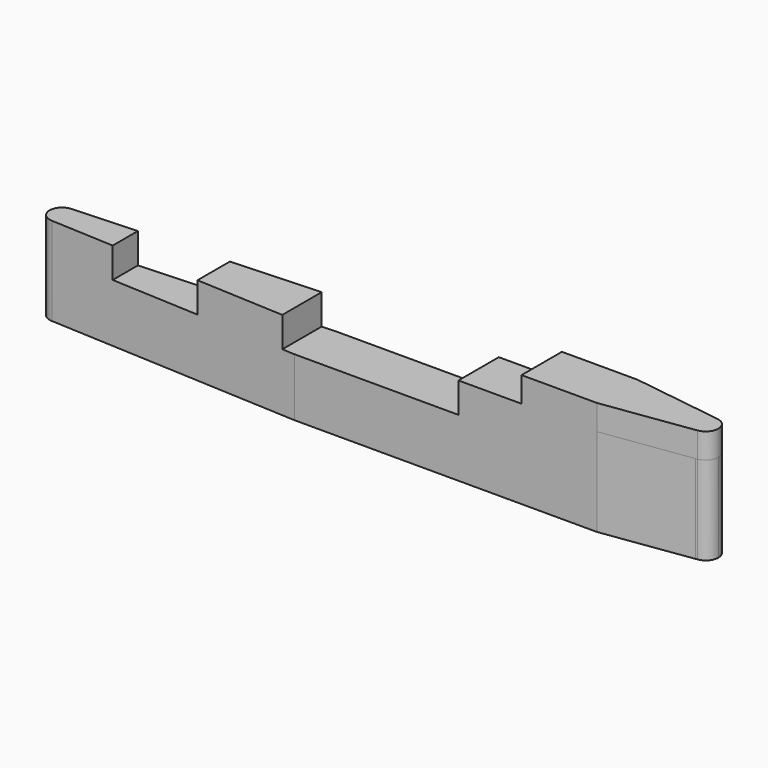
from build123d import *

# Parameters (mm, degrees)
F1_DEPTH = 35
F3_DEPTH = 10
F5_DEPTH = 12
F6_DEPTH = 12


with BuildPart() as f1:
    # F0 (on Top) → F1 (new body)
    with BuildSketch(Plane.XY):
        with BuildLine():
            Line((-62.8165142711, -9.8129920568), (57.1834857289, -9.8129920568))
            Line((57.1834857289, -9.8129920568), (92.1834857289, -4.8627543336))
            Line((92.1834857289, -4.8627543336), (92.8836937573, -4.7637201565))
            ThreePointArc((92.8836937573, -4.7637201565), (95.958471831, -3.0916320079), (97.1834857289, 0.1870079432))
            ThreePointArc((97.1834857289, 0.1870079432), (95.958471831, 3.4656478942), (92.8836937573, 5.1377360428))
            Line((92.8836937573, 5.1377360428), (57.1834857289, 10.1870079432))
            Line((57.1834857289, 10.1870079432), (-62.8165142711, 10.1870079432))
            Line((-62.8165142711, 10.1870079432), (-162.8165142711, 5.1870079432))
            ThreePointArc((-162.8165142711, 5.1870079432), (-167.8165142711, 0.1870079432), (-162.8165142711, -4.8129920568))
            Line((-162.8165142711, -4.8129920568), (-62.8165142711, -9.8129920568))
        make_face()
    extrude(amount=F1_DEPTH)

    # F2 (on face) → F3 (join)
    with BuildSketch(Plane.XY.offset(35)):
        with BuildLine():
            Line((57.1834857289, 10.1870079432), (27.1834857289, 10.1870079432))
            Line((27.1834857289, 10.1870079432), (27.1834857289, -9.8129920568))
            Line((27.1834857289, -9.8129920568), (57.1834857289, -9.8129920568))
            Line((57.1834857289, -9.8129920568), (92.8836937573, -4.7637201565))
            ThreePointArc((92.8836937573, -4.7637201565), (97.1834857289, 0.1870079432), (92.8836937573, 5.1377360428))
            Line((92.8836937573, 5.1377360428), (57.1834857289, 10.1870079432))
        make_face()
    extrude(amount=F3_DEPTH)

    # F4 (on face) → F5 (cut)
    with BuildSketch(Plane.XY.offset(35)):
        Polygon((2.1834857289, -9.8129920568), (2.1834857289, 10.1870079432), (-62.8165142711, 10.1870079432), (-67.8165142711, 9.9370079432), (-67.8165142711, -9.5629920568), (-62.8165142711, -9.8129920568), align=None)
    extrude(amount=-F5_DEPTH, mode=Mode.SUBTRACT)

    # F4 (on face) → F6 (cut)
    with BuildSketch(Plane.XY.offset(35)):
        Polygon((-102.8165142711, -7.8129920568), (-102.8165142711, 8.1870079432), (-137.8165142711, 6.4370079432), (-137.8165142711, -6.0629920568), align=None)
    extrude(amount=-F6_DEPTH, mode=Mode.SUBTRACT)


solid = f1.part
